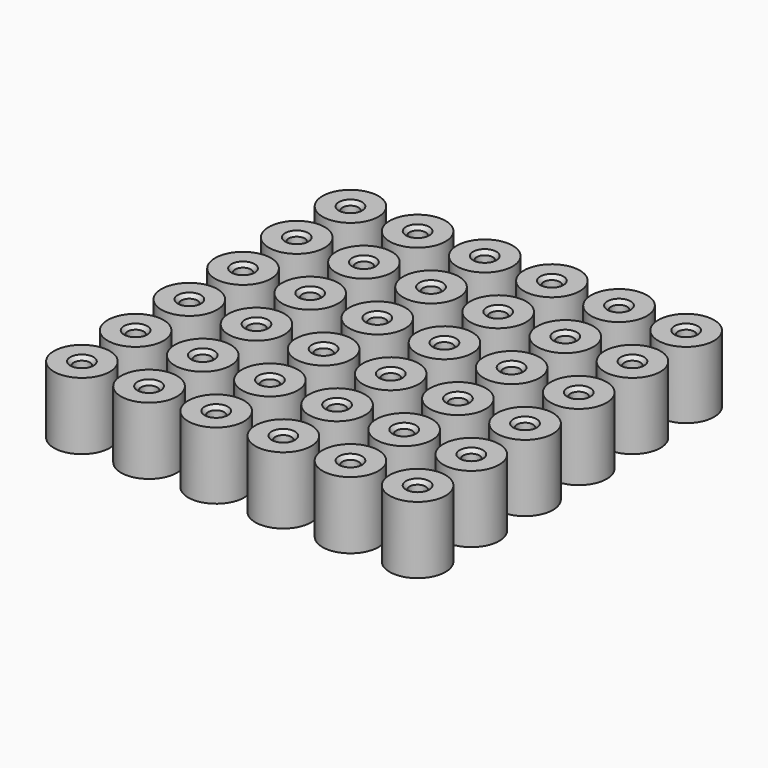
from build123d import *

# Parameters (mm, degrees)
F0_R     = 7.9375
F0_R_2   = 2.286
F1_DEPTH = 19.05
F2_SIZE  = 1.016
F3_SIZE  = 1.016


with BuildPart() as f1:
    # F0 (on Top) → F1 (new body)
    with BuildSketch(Plane.XY):
        with Locations((-63.5, -63.5)):
            Circle(F0_R)
        with Locations((-63.5, -63.5)):
            Circle(F0_R_2, mode=Mode.SUBTRACT)
        with Locations((-63.5, -44.45)):
            Circle(F0_R)
        with Locations((-63.5, -44.45)):
            Circle(F0_R_2, mode=Mode.SUBTRACT)
        with Locations((-63.5, -25.4)):
            Circle(F0_R)
        with Locations((-63.5, -25.4)):
            Circle(F0_R_2, mode=Mode.SUBTRACT)
        with Locations((-63.5, -6.35)):
            Circle(F0_R)
        with Locations((-63.5, -6.35)):
            Circle(F0_R_2, mode=Mode.SUBTRACT)
        with Locations((-63.5, 12.7)):
            Circle(F0_R)
        with Locations((-63.5, 12.7)):
            Circle(F0_R_2, mode=Mode.SUBTRACT)
        with Locations((-63.5, 31.75)):
            Circle(F0_R)
        with Locations((-63.5, 31.75)):
            Circle(F0_R_2, mode=Mode.SUBTRACT)
        with Locations((-44.45, -63.5)):
            Circle(F0_R)
        with Locations((-44.45, -63.5)):
            Circle(F0_R_2, mode=Mode.SUBTRACT)
        with Locations((-44.45, -44.45)):
            Circle(F0_R)
        with Locations((-44.45, -44.45)):
            Circle(F0_R_2, mode=Mode.SUBTRACT)
        with Locations((-44.45, -25.4)):
            Circle(F0_R)
        with Locations((-44.45, -25.4)):
            Circle(F0_R_2, mode=Mode.SUBTRACT)
        with Locations((-44.45, -6.35)):
            Circle(F0_R)
        with Locations((-44.45, -6.35)):
            Circle(F0_R_2, mode=Mode.SUBTRACT)
        with Locations((-44.45, 12.7)):
            Circle(F0_R)
        with Locations((-44.45, 12.7)):
            Circle(F0_R_2, mode=Mode.SUBTRACT)
        with Locations((-44.45, 31.75)):
            Circle(F0_R)
        with Locations((-44.45, 31.75)):
            Circle(F0_R_2, mode=Mode.SUBTRACT)
        with Locations((-25.4, -63.5)):
            Circle(F0_R)
        with Locations((-25.4, -63.5)):
            Circle(F0_R_2, mode=Mode.SUBTRACT)
        with Locations((-25.4, -44.45)):
            Circle(F0_R)
        with Locations((-25.4, -44.45)):
            Circle(F0_R_2, mode=Mode.SUBTRACT)
        with Locations((-25.4, -25.4)):
            Circle(F0_R)
        with Locations((-25.4, -25.4)):
            Circle(F0_R_2, mode=Mode.SUBTRACT)
        with Locations((-25.4, -6.35)):
            Circle(F0_R)
        with Locations((-25.4, -6.35)):
            Circle(F0_R_2, mode=Mode.SUBTRACT)
        with Locations((-25.4, 12.7)):
            Circle(F0_R)
        with Locations((-25.4, 12.7)):
            Circle(F0_R_2, mode=Mode.SUBTRACT)
        with Locations((-25.4, 31.75)):
            Circle(F0_R)
        with Locations((-25.4, 31.75)):
            Circle(F0_R_2, mode=Mode.SUBTRACT)
        with Locations((-6.35, -63.5)):
            Circle(F0_R)
        with Locations((-6.35, -63.5)):
            Circle(F0_R_2, mode=Mode.SUBTRACT)
        with Locations((-6.35, -44.45)):
            Circle(F0_R)
        with Locations((-6.35, -44.45)):
            Circle(F0_R_2, mode=Mode.SUBTRACT)
        with Locations((-6.35, -25.4)):
            Circle(F0_R)
        with Locations((-6.35, -25.4)):
            Circle(F0_R_2, mode=Mode.SUBTRACT)
        with Locations((-6.35, -6.35)):
            Circle(F0_R)
        with Locations((-6.35, -6.35)):
            Circle(F0_R_2, mode=Mode.SUBTRACT)
        with Locations((-6.35, 12.7)):
            Circle(F0_R)
        with Locations((-6.35, 12.7)):
            Circle(F0_R_2, mode=Mode.SUBTRACT)
        with Locations((-6.35, 31.75)):
            Circle(F0_R)
        with Locations((-6.35, 31.75)):
            Circle(F0_R_2, mode=Mode.SUBTRACT)
        with Locations((12.7, -63.5)):
            Circle(F0_R)
        with Locations((12.7, -63.5)):
            Circle(F0_R_2, mode=Mode.SUBTRACT)
        with Locations((12.7, -44.45)):
            Circle(F0_R)
        with Locations((12.7, -44.45)):
            Circle(F0_R_2, mode=Mode.SUBTRACT)
        with Locations((12.7, -25.4)):
            Circle(F0_R)
        with Locations((12.7, -25.4)):
            Circle(F0_R_2, mode=Mode.SUBTRACT)
        with Locations((12.7, -6.35)):
            Circle(F0_R)
        with Locations((12.7, -6.35)):
            Circle(F0_R_2, mode=Mode.SUBTRACT)
        with Locations((12.7, 12.7)):
            Circle(F0_R)
        with Locations((12.7, 12.7)):
            Circle(F0_R_2, mode=Mode.SUBTRACT)
        with Locations((12.7, 31.75)):
            Circle(F0_R)
        with Locations((12.7, 31.75)):
            Circle(F0_R_2, mode=Mode.SUBTRACT)
        with Locations((31.75, -63.5)):
            Circle(F0_R)
        with Locations((31.75, -63.5)):
            Circle(F0_R_2, mode=Mode.SUBTRACT)
        with Locations((31.75, -44.45)):
            Circle(F0_R)
        with Locations((31.75, -44.45)):
            Circle(F0_R_2, mode=Mode.SUBTRACT)
        with Locations((31.75, -25.4)):
            Circle(F0_R)
        with Locations((31.75, -25.4)):
            Circle(F0_R_2, mode=Mode.SUBTRACT)
        with Locations((31.75, -6.35)):
            Circle(F0_R)
        with Locations((31.75, -6.35)):
            Circle(F0_R_2, mode=Mode.SUBTRACT)
        with Locations((31.75, 12.7)):
            Circle(F0_R)
        with Locations((31.75, 12.7)):
            Circle(F0_R_2, mode=Mode.SUBTRACT)
        with Locations((31.75, 31.75)):
            Circle(F0_R)
        with Locations((31.75, 31.75)):
            Circle(F0_R_2, mode=Mode.SUBTRACT)
    extrude(amount=F1_DEPTH)

    # F2
    f2_edges = [f1.edges().sort_by_distance(p)[0] for p in [
        (-65.786, -63.5, 19.05),
        (-46.736, -63.5, 19.05),
        (-27.686, -63.5, 19.05),
        (-8.636, -63.5, 19.05),
        (10.414, -63.5, 19.05),
        (29.464, -63.5, 19.05),
        (29.464, -44.45, 19.05),
        (10.414, -44.45, 19.05),
        (-27.686, -44.45, 19.05),
        (-8.636, -44.45, 19.05),
        (-46.736, -44.45, 19.05),
        (-65.786, -44.45, 19.05),
        (-65.786, -25.4, 19.05),
        (-46.736, -25.4, 19.05),
        (-27.686, -25.4, 19.05),
        (-8.636, -25.4, 19.05),
        (10.414, -25.4, 19.05),
        (29.464, -25.4, 19.05),
        (29.464, -6.35, 19.05),
        (-65.786, -6.35, 19.05),
        (-46.736, -6.35, 19.05),
        (-27.686, -6.35, 19.05),
        (-8.636, -6.35, 19.05),
        (10.414, -6.35, 19.05),
        (29.464, 12.7, 19.05),
        (10.414, 12.7, 19.05),
        (-8.636, 12.7, 19.05),
        (-27.686, 12.7, 19.05),
        (-46.736, 12.7, 19.05),
        (-65.786, 12.7, 19.05),
        (-65.786, 31.75, 19.05),
        (-46.736, 31.75, 19.05),
        (-27.686, 31.75, 19.05),
        (-8.636, 31.75, 19.05),
        (10.414, 31.75, 19.05),
        (29.464, 31.75, 19.05),
    ]]
    chamfer(f2_edges, length=F2_SIZE)

    # F3
    f3_edges = [f1.edges().sort_by_distance(p)[0] for p in [
        (-65.786, 31.75, 0),
        (-65.786, 12.7, 0),
        (-65.786, -6.35, 0),
        (-65.786, -25.4, 0),
        (-65.786, -44.45, 0),
        (-65.786, -63.5, 0),
        (-46.736, 31.75, 0),
        (-46.736, 12.7, 0),
        (-46.736, -6.35, 0),
        (-46.736, -25.4, 0),
        (-46.736, -44.45, 0),
        (-46.736, -63.5, 0),
        (-27.686, -63.5, 0),
        (-27.686, -44.45, 0),
        (-27.686, -25.4, 0),
        (-27.686, -6.35, 0),
        (-27.686, 12.7, 0),
        (-27.686, 31.75, 0),
        (-8.636, 31.75, 0),
        (-8.636, 12.7, 0),
        (-8.636, -6.35, 0),
        (-8.636, -25.4, 0),
        (-8.636, -44.45, 0),
        (10.414, 31.75, 0),
        (29.464, 31.75, 0),
        (29.464, 12.7, 0),
        (10.414, 12.7, 0),
        (10.414, -6.35, 0),
        (29.464, -6.35, 0),
        (29.464, -25.4, 0),
        (10.414, -25.4, 0),
        (10.414, -44.45, 0),
        (29.464, -44.45, 0),
        (10.414, -63.5, 0),
        (-8.636, -63.5, 0),
        (29.464, -63.5, 0),
    ]]
    chamfer(f3_edges, length=F3_SIZE)


solid = f1.part
